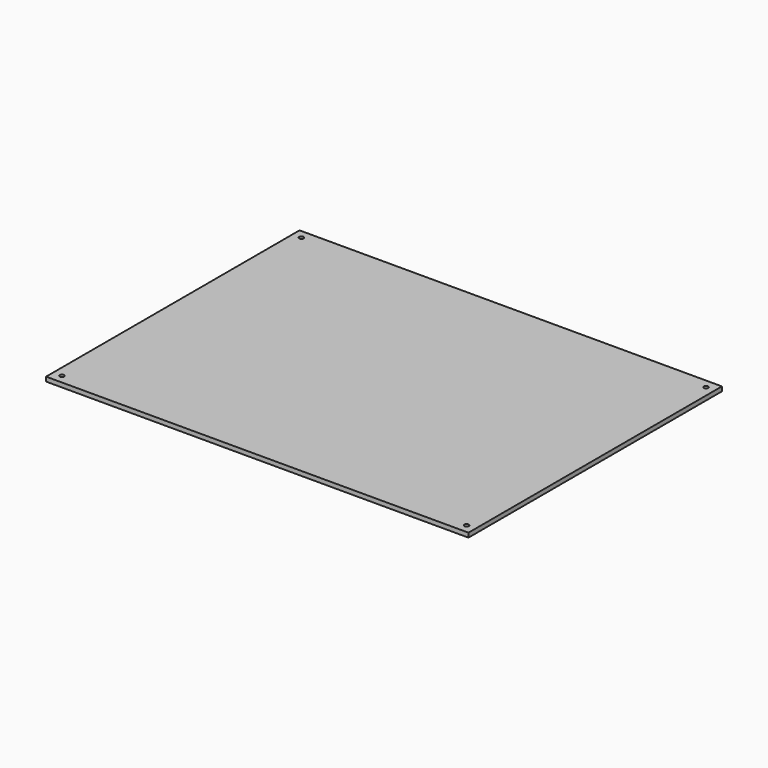
from build123d import *

# Parameters (mm, degrees)
F0_W     = 609.6
F0_H     = 457.2
F1_DEPTH = 6.35
F2_R     = 3.175
F3_DEPTH = 6.35


with BuildPart() as f1:
    # F0 (on Top) → F1 (new body)
    with BuildSketch(Plane.XY):
        Rectangle(F0_W, F0_H)
    extrude(amount=F1_DEPTH)

    # F2 (on face) → F3 (cut)
    with BuildSketch(Plane.XY.offset(6.35)):
        with BuildLine():
            Line((-292.1, 219.075), (-292.1, 215.9))
            Line((-292.1, 215.9), (-288.925, 215.9))
            ThreePointArc((-288.925, 215.9), (-289.8549359697, 218.1450640303), (-292.1, 219.075))
        make_face()
        with BuildLine():
            ThreePointArc((-292.1, 219.075), (-294.3450640303, 218.1450640303), (-295.275, 215.9))
            Line((-295.275, 215.9), (-292.1, 215.9))
            Line((-292.1, 215.9), (-292.1, 219.075))
        make_face()
        with BuildLine():
            ThreePointArc((-295.275, 215.9), (-294.3450640303, 213.6549359697), (-292.1, 212.725))
            Line((-292.1, 212.725), (-292.1, 215.9))
            Line((-292.1, 215.9), (-295.275, 215.9))
        make_face()
        with BuildLine():
            Line((-292.1, 215.9), (-292.1, 212.725))
            ThreePointArc((-292.1, 212.725), (-289.8549359697, 213.6549359697), (-288.925, 215.9))
            Line((-288.925, 215.9), (-292.1, 215.9))
        make_face()
        with Locations((-292.1, -215.9)):
            Circle(F2_R)
        with Locations((292.1, -215.9)):
            Circle(F2_R)
        with BuildLine():
            Line((292.1, 219.075), (292.1, 212.725))
            ThreePointArc((292.1, 212.725), (294.3450640303, 213.6549359697), (295.275, 215.9))
            ThreePointArc((295.275, 215.9), (294.3450640303, 218.1450640303), (292.1, 219.075))
        make_face()
        with BuildLine():
            ThreePointArc((292.1, 219.075), (288.925, 215.9), (292.1, 212.725))
            Line((292.1, 212.725), (292.1, 219.075))
        make_face()
    extrude(amount=-F3_DEPTH, mode=Mode.SUBTRACT)


solid = f1.part
